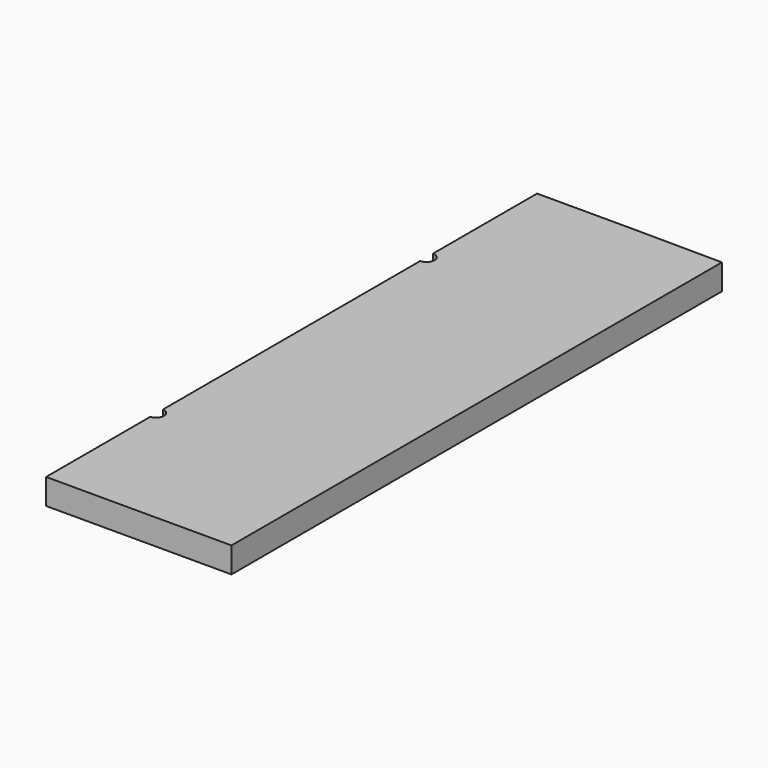
from build123d import *

# Parameters (mm, degrees)
F1_DEPTH = 25.4


with BuildPart() as f1:
    # F0 (on Top) → F1 (new body)
    with BuildSketch(Plane.XY):
        with BuildLine():
            Line((-184.15, 0), (-92.075, 0))
            Line((-92.075, 0), (-92.075, 609.6))
            Line((-92.075, 609.6), (-184.15, 609.6))
            Line((-184.15, 609.6), (-184.15, 563.878215))
            Line((-184.15, 563.878215), (-184.15, 518.156431))
            Line((-184.15, 518.156431), (-184.15, 480.371638))
            ThreePointArc((-184.15, 480.371638), (-178.537699, 478.046947), (-176.213008, 472.434646))
            ThreePointArc((-176.213008, 472.434646), (-178.537699, 466.822345), (-184.15, 464.497654))
            Line((-184.15, 464.497654), (-184.15, 457.2))
            Line((-184.15, 457.2), (-184.15, 304.8))
            Line((-184.15, 304.8), (-184.15, 152.4))
            Line((-184.15, 152.4), (-184.15, 145.082353))
            ThreePointArc((-184.15, 145.082353), (-178.914135, 142.570877), (-176.789792, 137.166346))
            ThreePointArc((-176.789792, 137.166346), (-178.914135, 131.761815), (-184.15, 129.25034))
            Line((-184.15, 129.25034), (-184.15, 0))
        make_face()
        Polygon((-92.075, 0), (0, 0), (0, 152.241597), (0, 304.483195), (0, 456.724792), (0, 518.156431), (0, 608.966389), (-92.075, 609.6), align=None)
    extrude(amount=F1_DEPTH)


solid = f1.part
